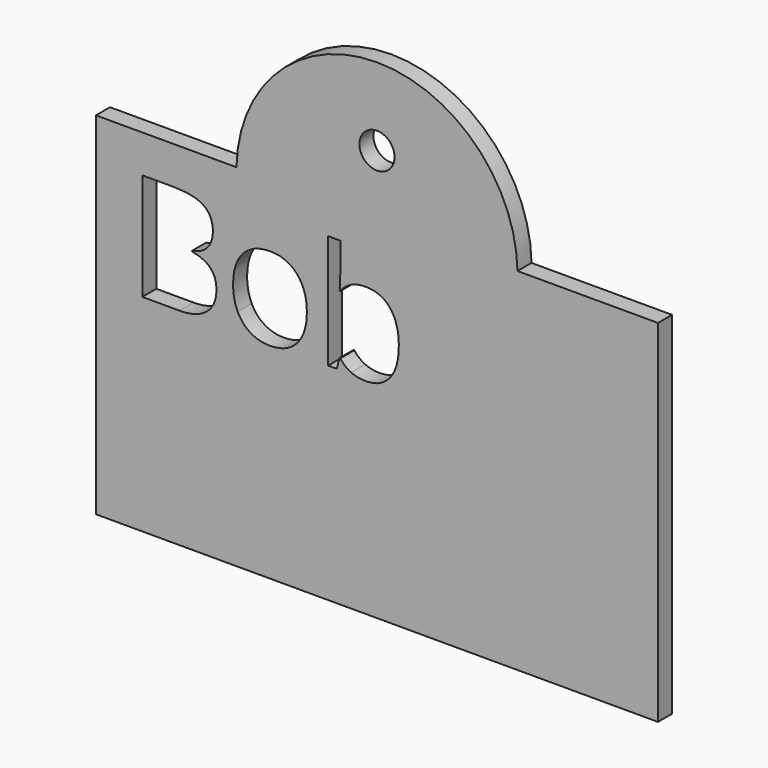
from build123d import *

# Parameters (mm, degrees)
F0_R     = 2.5
F1_DEPTH = 2.5


with BuildPart() as f1:
    # F0 (on Front) → F1 (new body)
    with BuildSketch(Plane.XZ):
        with BuildLine():
            Line((-39.0163958073, 32.069671154), (-39.0163958073, -17.930328846))
            Line((-39.0163958073, -17.930328846), (40.9836041927, -17.930328846))
            Line((40.9836041927, -17.930328846), (40.9836041927, 32.069671154))
            Line((40.9836041927, 32.069671154), (20.9836041927, 32.069671154))
            ThreePointArc((20.9836041927, 32.069671154), (0.9836041927, 51.7268625575), (-19.0163958073, 32.069671154))
            Line((-19.0163958073, 32.069671154), (-39.0163958073, 32.069671154))
        make_face()
        with BuildLine():
            Line((-32.4271805924, 11.4579676845), (-32.4271805924, 26.6955864939))
            Line((-32.4271805924, 26.6955864939), (-28.121694516, 26.6955864939))
            add(Edge.make_bspline(
                [(-28.121694516, 26.6955864939), (-25.0901787581, 26.6955864939), (-23.7345009192, 25.7884662672)],
                knots=[0, 0, 0, 1, 1, 1], degree=2))
            add(Edge.make_bspline(
                [(-23.7345009192, 25.7884662672), (-22.3788230803, 24.8813460404), (-22.3788230803, 22.923700551)],
                knots=[0, 0, 0, 1, 1, 1], degree=2))
            add(Edge.make_bspline(
                [(-22.3788230803, 22.923700551), (-22.3788230803, 21.5663552116), (-23.1342007691, 20.6859149915)],
                knots=[0, 0, 0, 1, 1, 1], degree=2))
            add(Edge.make_bspline(
                [(-23.1342007691, 20.6859149915), (-23.889578458, 19.8054747714), (-25.3403038207, 19.5453447064)],
                knots=[0, 0, 0, 1, 1, 1], degree=2))
            Line((-25.3403038207, 19.5453447064), (-25.3403038207, 19.4419596805))
            add(Edge.make_bspline(
                [(-25.3403038207, 19.4419596805), (-21.8685679527, 18.8483295321), (-21.8685679527, 15.7934687684)],
                knots=[0, 0, 0, 1, 1, 1], degree=2))
            add(Edge.make_bspline(
                [(-21.8685679527, 15.7934687684), (-21.8685679527, 13.7524482582), (-23.2492582979, 12.6052079713)],
                knots=[0, 0, 0, 1, 1, 1], degree=2))
            add(Edge.make_bspline(
                [(-23.2492582979, 12.6052079713), (-24.6299486431, 11.4579676845), (-27.1111892634, 11.4579676845)],
                knots=[0, 0, 0, 1, 1, 1], degree=2))
            Line((-27.1111892634, 11.4579676845), (-32.4271805924, 11.4579676845))
        make_face(mode=Mode.SUBTRACT)
        with BuildLine():
            add(Edge.make_bspline(
                [(-10.4111725884, 21.4946526937), (-8.9987997353, 19.8988547948), (-8.9987997353, 17.1808291152)],
                knots=[0, 0, 0, 1, 1, 1], degree=2))
            add(Edge.make_bspline(
                [(-8.9987997353, 17.1808291152), (-8.9987997353, 14.3860984166), (-10.4045025867, 12.8169805243)],
                knots=[0, 0, 0, 1, 1, 1], degree=2))
            add(Edge.make_bspline(
                [(-10.4045025867, 12.8169805243), (-11.8102054381, 11.247862632), (-14.2914460585, 11.247862632)],
                knots=[0, 0, 0, 1, 1, 1], degree=2))
            add(Edge.make_bspline(
                [(-14.2914460585, 11.247862632), (-15.825546442, 11.247862632), (-17.0128067388, 11.9682228121)],
                knots=[0, 0, 0, 1, 1, 1], degree=2))
            add(Edge.make_bspline(
                [(-17.0128067388, 11.9682228121), (-18.2000670356, 12.6885829922), (-18.8470571974, 14.0325883282)],
                knots=[0, 0, 0, 1, 1, 1], degree=2))
            add(Edge.make_bspline(
                [(-18.8470571974, 14.0325883282), (-19.4940473591, 15.3765936642), (-19.4940473591, 17.1808291152)],
                knots=[0, 0, 0, 1, 1, 1], degree=2))
            add(Edge.make_bspline(
                [(-19.4940473591, 17.1808291152), (-19.4940473591, 19.9722248131), (-18.0966820098, 21.5313377029)],
                knots=[0, 0, 0, 1, 1, 1], degree=2))
            add(Edge.make_bspline(
                [(-18.0966820098, 21.5313377029), (-16.6993166604, 23.0904505927), (-14.2180760401, 23.0904505927)],
                knots=[0, 0, 0, 1, 1, 1], degree=2))
            add(Edge.make_bspline(
                [(-14.2180760401, 23.0904505927), (-11.8235454415, 23.0904505927), (-10.4111725884, 21.4946526937)],
                knots=[0, 0, 0, 1, 1, 1], degree=2))
        make_face(mode=Mode.SUBTRACT)
        with BuildLine():
            add(Edge.make_bspline(
                [(-4.2330835439, 21.3595851599), (-3.025813242, 23.0671055868), (-0.6479576476, 23.0671055868)],
                knots=[0, 0, 0, 1, 1, 1], degree=2))
            add(Edge.make_bspline(
                [(-0.6479576476, 23.0671055868), (1.6031679152, 23.0671055868), (2.8487907266, 21.5296702025)],
                knots=[0, 0, 0, 1, 1, 1], degree=2))
            add(Edge.make_bspline(
                [(2.8487907266, 21.5296702025), (4.094413538, 19.9922348181), (4.094413538, 17.1808291152)],
                knots=[0, 0, 0, 1, 1, 1], degree=2))
            add(Edge.make_bspline(
                [(4.094413538, 17.1808291152), (4.094413538, 14.3660884116), (2.8387857241, 12.8069755218)],
                knots=[0, 0, 0, 1, 1, 1], degree=2))
            add(Edge.make_bspline(
                [(2.8387857241, 12.8069755218), (1.5831579102, 11.247862632), (-0.6479576476, 11.247862632)],
                knots=[0, 0, 0, 1, 1, 1], degree=2))
            add(Edge.make_bspline(
                [(-0.6479576476, 11.247862632), (-1.7651829269, 11.247862632), (-2.6873106574, 11.659735235)],
                knots=[0, 0, 0, 1, 1, 1], degree=2))
            add(Edge.make_bspline(
                [(-2.6873106574, 11.659735235), (-3.6094383879, 12.0716078379), (-4.2330835439, 12.9287030522)],
                knots=[0, 0, 0, 1, 1, 1], degree=2))
            Line((-4.2330835439, 12.9287030522), (-4.3598135755, 12.9287030522))
            Line((-4.3598135755, 12.9287030522), (-4.7233286664, 11.4579676845))
            Line((-4.7233286664, 11.4579676845), (-5.9639489766, 11.4579676845))
            Line((-5.9639489766, 11.4579676845), (-5.9639489766, 27.6760767391))
            Line((-5.9639489766, 27.6760767391), (-4.2330835439, 27.6760767391))
            Line((-4.2330835439, 27.6760767391), (-4.2330835439, 23.7341057536))
            add(Edge.make_bspline(
                [(-4.2330835439, 23.7341057536), (-4.2330835439, 22.4101104226), (-4.3164585647, 21.3595851599)],
                knots=[0, 0, 0, 1, 1, 1], degree=2))
            Line((-4.3164585647, 21.3595851599), (-4.2330835439, 21.3595851599))
        make_face(mode=Mode.SUBTRACT)
        with Locations((0.9836041927, 40.6512729824)):
            Circle(F0_R, mode=Mode.SUBTRACT)
    extrude(amount=F1_DEPTH)


solid = f1.part
